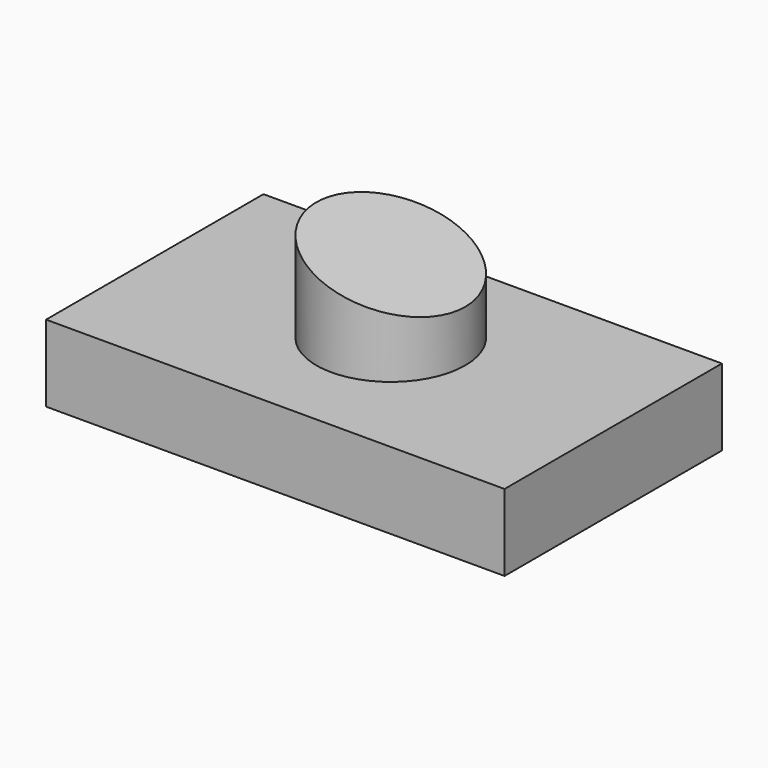
from build123d import *

# Parameters (mm, degrees)
F0_W     = 151.971087
F0_H     = 90.071138
F1_DEPTH = 25.4
F2_R     = 24.678934
F3_DEPTH = 38.1
F5_DEPTH = 90.072138


with BuildPart() as f1:
    # F0 (on Top) → F1 (new body)
    with BuildSketch(Plane.XY):
        with Locations((-0.095821, -3.162073)):
            Rectangle(F0_W, F0_H)
    extrude(amount=F1_DEPTH)

    # F2 (on face) → F3 (join)
    with BuildSketch(Plane.XY.offset(25.4)):
        with Locations((0, -0.479101)):
            Circle(F2_R)
    extrude(amount=F3_DEPTH)

    # F4 (on face) → F5 (cut, through all)
    with BuildSketch(Plane.XZ.offset(48.197642)):
        Polygon((29.129392, 74.644059), (-56.150731, 66.211872), (38.519785, 38.423963), align=None)
    extrude(amount=-F5_DEPTH, mode=Mode.SUBTRACT)


solid = f1.part
